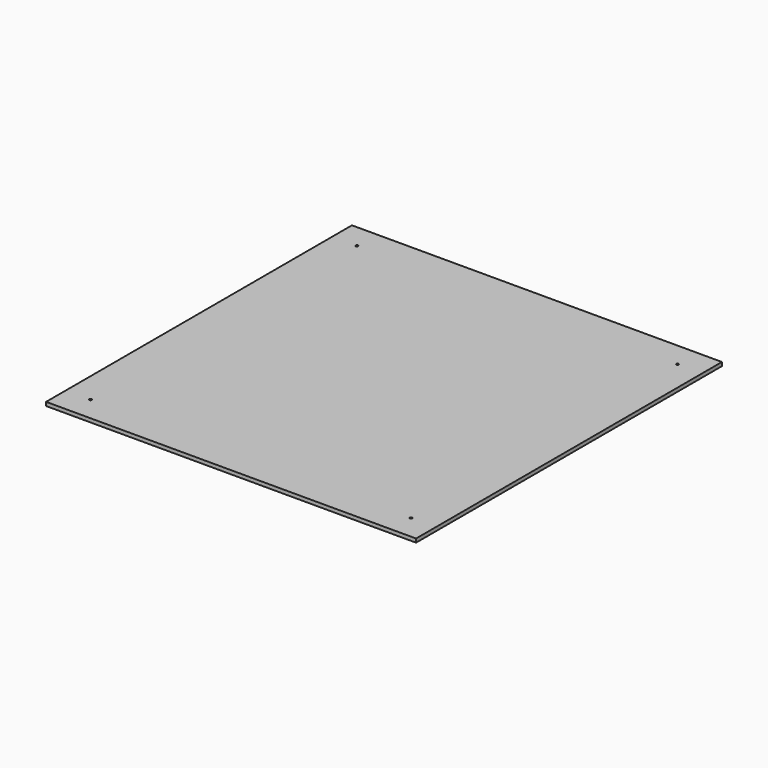
from build123d import *

# Parameters (mm, degrees)
SKETCH_W  = 600
SKETCH_H  = 620
SKETCH_R  = 2
PAD_DEPTH = 6


with BuildPart() as part:
    # Sketch → Pad (new body)
    with BuildSketch(Plane.XY):
        with Locations((300, 310)):
            Rectangle(SKETCH_W, SKETCH_H)
        with Locations((40, 580)):
            Circle(SKETCH_R, mode=Mode.SUBTRACT)
        with Locations((560, 580)):
            Circle(SKETCH_R, mode=Mode.SUBTRACT)
        with Locations((560, 40)):
            Circle(SKETCH_R, mode=Mode.SUBTRACT)
        with Locations((40, 40)):
            Circle(SKETCH_R, mode=Mode.SUBTRACT)
    extrude(amount=PAD_DEPTH)


solid = part.part
